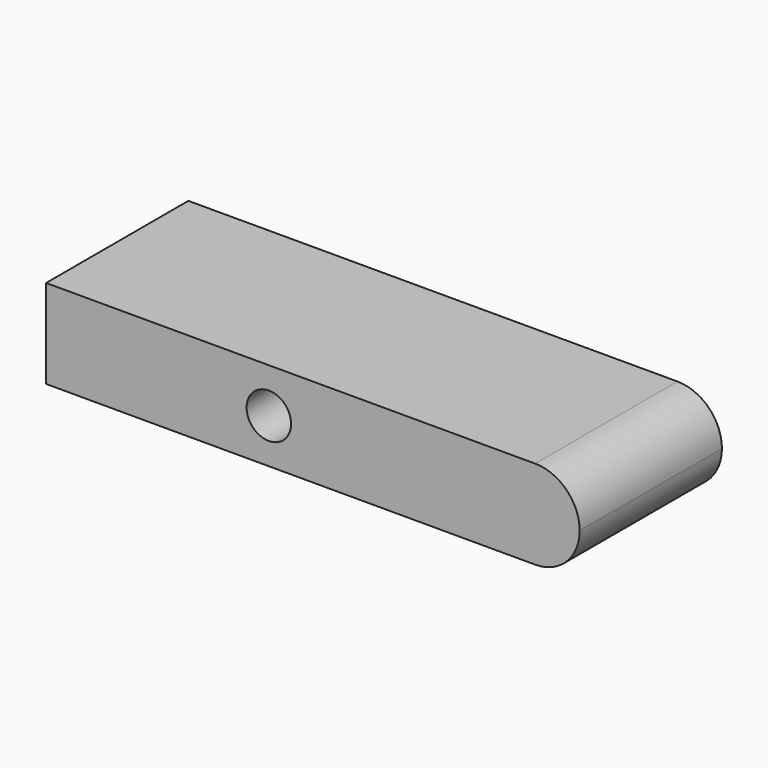
from build123d import *

# Parameters (mm, degrees)
F1_DEPTH = 25.4
F2_R     = 3.175
F3_DEPTH = 25.4


with BuildPart() as f1:
    # F0 (on Front) → F1 (new body)
    with BuildSketch(Plane.XZ):
        with BuildLine():
            ThreePointArc((38.1, 0), (36.240128, 4.490128), (31.75, 6.35))
            Line((31.75, 6.35), (-38.1, 6.35))
            Line((-38.1, 6.35), (-38.1, -6.35))
            Line((-38.1, -6.35), (31.75, -6.35))
            ThreePointArc((31.75, -6.35), (36.240128, -4.490128), (38.1, 0))
        make_face()
    extrude(amount=F1_DEPTH)

    # F2 (on face) → F3 (cut)
    with BuildSketch(Plane.XZ.offset(25.4)):
        with Locations((-6.28843, 0)):
            Circle(F2_R)
    extrude(amount=-F3_DEPTH, mode=Mode.SUBTRACT)


solid = f1.part
